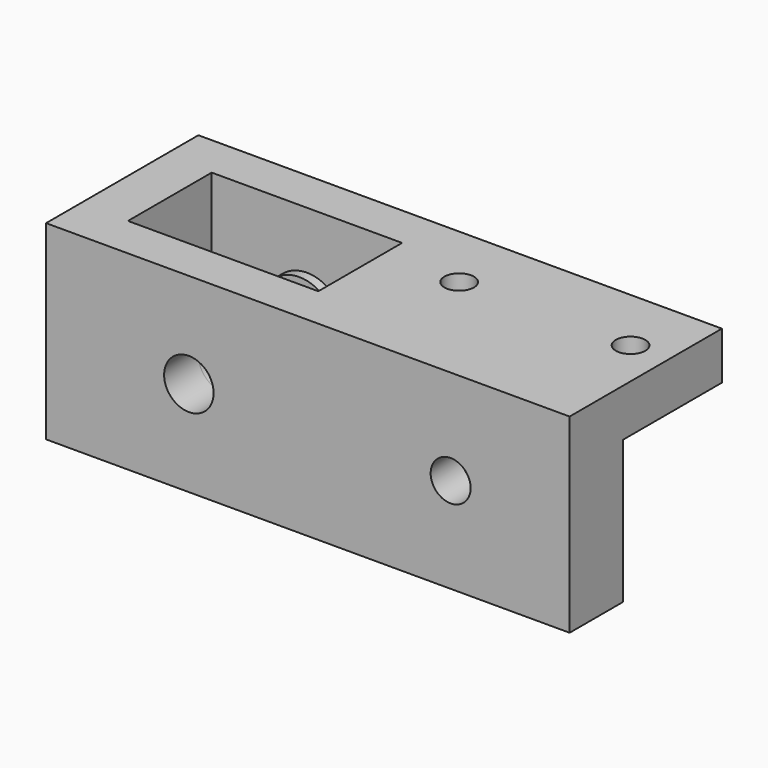
from build123d import *

# Parameters (mm, degrees)
SKETCH_W        = 55
SKETCH_H        = 20
SKETCH_R        = 1.55
SKETCH_W_2      = 20
SKETCH_H_2      = 11
PAD_DEPTH       = 10
SKETCH001_R     = 2.6
POCKET_DEPTH    = 5
SKETCH002_R     = 2.6
POCKET001_DEPTH = 5
SKETCH003_R     = 4
SKETCH003_R_2   = 2.6
PAD001_DEPTH    = 1
SKETCH004_R     = 4
SKETCH004_R_2   = 2.6
PAD002_DEPTH    = 1
SKETCH005_W     = 26
SKETCH005_H     = 15
POCKET002_DEPTH = 13
SKETCH006_R     = 2.1
POCKET003_DEPTH = 7
SKETCH007_R     = 3.55
POCKET004_DEPTH = 3


with BuildPart() as part:
    # Sketch → Pad (new body, symmetric)
    with BuildSketch(Plane.XY):
        Rectangle(SKETCH_W, SKETCH_H)
        with Locations((5.5, 3)):
            Circle(SKETCH_R, mode=Mode.SUBTRACT)
        with Locations((23.5, 3)):
            Circle(SKETCH_R, mode=Mode.SUBTRACT)
        with Locations((-12.5, 0)):
            Rectangle(SKETCH_W_2, SKETCH_H_2, mode=Mode.SUBTRACT)
    extrude(amount=PAD_DEPTH, both=True)

    # Sketch001 → Pocket (cut)
    with BuildSketch(Plane.XZ.offset(-5.5)):
        with Locations((-12.5, 0)):
            Circle(SKETCH001_R)
    extrude(amount=-POCKET_DEPTH, mode=Mode.SUBTRACT)

    # Sketch002 → Pocket001 (cut)
    with BuildSketch(Plane(origin=(0, -5.5, 0), x_dir=(-1, 0, 0), z_dir=(0, 1, 0))):
        with Locations((12.5, 0)):
            Circle(SKETCH002_R)
    extrude(amount=-POCKET001_DEPTH, mode=Mode.SUBTRACT)

    # Sketch003 → Pad001 (new body)
    with BuildSketch(Plane(origin=(0, -5.5, 0), x_dir=(-1, 0, 0), z_dir=(0, 1, 0))):
        with Locations((12.5, 0)):
            Circle(SKETCH003_R)
        with Locations((12.5, 0)):
            Circle(SKETCH003_R_2, mode=Mode.SUBTRACT)
    extrude(amount=PAD001_DEPTH)

    # Sketch004 → Pad002 (new body)
    with BuildSketch(Plane.XZ.offset(-5.5)):
        with Locations((-12.5, 0)):
            Circle(SKETCH004_R)
        with Locations((-12.5, 0)):
            Circle(SKETCH004_R_2, mode=Mode.SUBTRACT)
    extrude(amount=PAD002_DEPTH)

    # Sketch005 → Pocket002 (cut)
    with BuildSketch(Plane(origin=(0, 10, 0), x_dir=(-1, 0, 0), z_dir=(0, 1, 0))):
        with Locations((-14.5, -2.5)):
            Rectangle(SKETCH005_W, SKETCH005_H)
    extrude(amount=-POCKET002_DEPTH, mode=Mode.SUBTRACT)

    # Sketch006 → Pocket003 (cut)
    with BuildSketch(Plane(origin=(0, -3, 0), x_dir=(-1, 0, 0), z_dir=(0, 1, 0))):
        with Locations((-15, 0)):
            Circle(SKETCH006_R)
    extrude(amount=-POCKET003_DEPTH, mode=Mode.SUBTRACT)

    # Sketch007 → Pocket004 (cut)
    with BuildSketch(Plane(origin=(0, -3, 0), x_dir=(-1, 0, 0), z_dir=(0, 1, 0))):
        with Locations((-15, 0)):
            Circle(SKETCH007_R)
    extrude(amount=-POCKET004_DEPTH, mode=Mode.SUBTRACT)


solid = part.part
